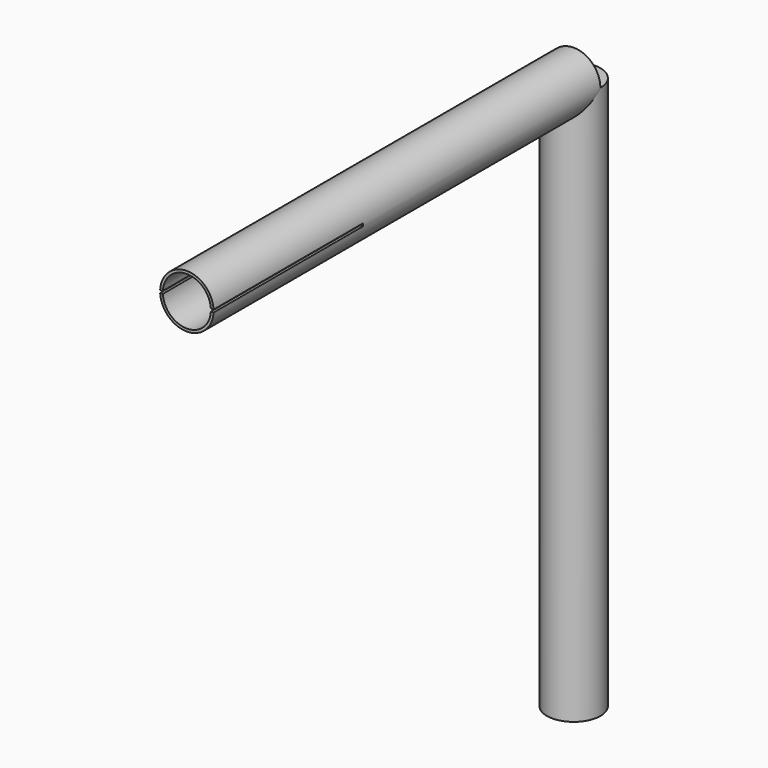
from build123d import *

# Parameters (mm, degrees)
SKETCH015_R       = 0.5
PAD004_DEPTH      = 7.25
PAD004_DEPTH_BACK = 3.1
SKETCH016_R       = 0.5
PAD005_DEPTH      = 9.05
POCKET009_DEPTH   = 3.5


with BuildPart() as part:
    # Sketch015 → Pad004 (new body, two sides)
    with BuildSketch(Plane.XY) as pad004_sk:
        Circle(SKETCH015_R)
    extrude(amount=PAD004_DEPTH)
    extrude(pad004_sk.sketch, amount=-PAD004_DEPTH_BACK)

    # Sketch016 → Pad005 (join)
    with BuildSketch(Plane.XZ):
        with Locations((0, 7.25)):
            Circle(SKETCH016_R)
    extrude(amount=PAD005_DEPTH)

    # Sketch017 (on DatumPlane) → Pocket009 (cut)
    with BuildSketch(Plane.XZ.offset(9.05)):
        with BuildLine():
            ThreePointArc((-0.449305, 7.225), (0, 6.8), (0.449305, 7.225))
            Line((0.449305, 7.225), (0.499875, 7.225))
            ThreePointArc((0.499875, 7.225), (0.5005, 7.25), (0.499875, 7.275))
            Line((0.449305, 7.275), (0.499875, 7.275))
            ThreePointArc((0.449305, 7.275), (0, 7.7), (-0.449305, 7.275))
            Line((-0.499875, 7.275), (-0.449305, 7.275))
            ThreePointArc((-0.499875, 7.275), (-0.5005, 7.25), (-0.499875, 7.225))
            Line((-0.499875, 7.225), (-0.449305, 7.225))
        make_face()
    extrude(amount=-POCKET009_DEPTH, mode=Mode.SUBTRACT)


solid = part.part
